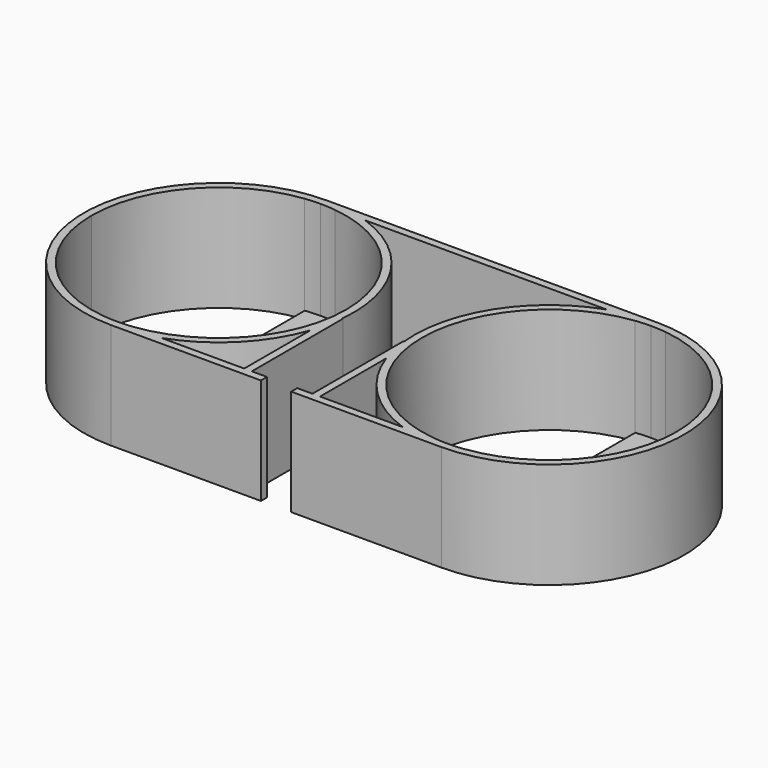
from build123d import *

# Parameters (mm, degrees)
F0_W     = 5
F0_H     = 2.5
F0_W_2   = 2.5
F1_DEPTH = 35
F2_DEPTH = 2.5


with BuildPart() as f1:
    # F0 (on Top) → F1 (new body)
    with BuildSketch(Plane.XY):
        with Locations((7.5, 1.25)):
            Rectangle(F0_W, F0_H)
        with Locations((11.25, 1.25)):
            Rectangle(F0_W_2, F0_H)
        with BuildLine():
            Line((10, 40), (10, 2.5))
            Line((10, 2.5), (12.5, 2.5))
            Line((12.5, 2.5), (12.5, 29.7945588301))
            ThreePointArc((12.5, 29.7945588301), (11.0632944452, 34.8303252101), (10.2281127576, 40))
            Line((10.2281127576, 40), (10, 40))
        make_face()
        with BuildLine():
            Line((12.5, 2.5), (12.5, 0))
            Line((12.5, 0), (54.5, 0))
            ThreePointArc((54.5, 0), (47.0417830549, 0.6294517928), (39.7945588301, 2.5))
            Line((39.7945588301, 2.5), (12.5, 2.5))
        make_face()
        with BuildLine():
            Line((39.7945588301, 2.5), (54.5, 2.5))
            ThreePointArc((54.5, 2.5), (51.9955434529, 2.574736764), (49.5, 2.798681076))
            ThreePointArc((49.5, 2.798681076), (12.5, 44.5), (49.5, 86.201318924))
            ThreePointArc((49.5, 86.201318924), (51.9955434529, 86.425263236), (54.5, 86.5))
            Line((54.5, 86.5), (39.7945588301, 86.5))
            ThreePointArc((39.7945588301, 86.5), (16.948118334, 68.3768964344), (10.2281127576, 40))
            Line((10.2281127576, 40), (12.5, 40))
            Line((12.5, 40), (12.5, 29.7945588301))
            ThreePointArc((12.5, 29.7945588301), (23.0337482372, 13.0337482372), (39.7945588301, 2.5))
        make_face()
        with BuildLine():
            ThreePointArc((10.2281127576, 40), (11.0632944452, 34.8303252101), (12.5, 29.7945588301))
            Line((12.5, 29.7945588301), (12.5, 40))
            Line((12.5, 40), (10.2281127576, 40))
        make_face()
        with BuildLine():
            ThreePointArc((39.7945588301, 2.5), (47.0417830549, 0.6294517928), (54.5, 0))
            Line((54.5, 0), (54.5, 2.5))
            Line((54.5, 2.5), (39.7945588301, 2.5))
        make_face()
        with BuildLine():
            Line((54.5, 2.5), (54.5, 0))
            ThreePointArc((54.5, 0), (85.9662517628, 13.0337482372), (99, 44.5))
            ThreePointArc((99, 44.5), (85.9662517628, 75.9662517628), (54.5, 89))
            Line((54.5, 89), (54.5, 86.5))
            ThreePointArc((54.5, 86.5), (57.0044565471, 86.425263236), (59.5, 86.201318924))
            ThreePointArc((59.5, 86.201318924), (85.9165561448, 72.3747197295), (96.5, 44.5))
            ThreePointArc((96.5, 44.5), (85.9165561448, 16.6252802705), (59.5, 2.798681076))
            ThreePointArc((59.5, 2.798681076), (57.0044565471, 2.574736764), (54.5, 2.5))
        make_face()
        with BuildLine():
            Line((54.5, 86.5), (54.5, 89))
            ThreePointArc((54.5, 89), (47.0417830549, 88.3705482072), (39.7945588301, 86.5))
            Line((39.7945588301, 86.5), (54.5, 86.5))
        make_face()
        with BuildLine():
            ThreePointArc((39.7945588301, 86.5), (47.0417830549, 88.3705482072), (54.5, 89))
            Line((54.5, 89), (0, 89))
            Line((0, 89), (0, 86.5))
            Line((0, 86.5), (39.7945588301, 86.5))
        make_face()
    extrude(amount=F1_DEPTH)

    # F0 (on Top) → F2 (join)
    with BuildSketch(Plane.XY):
        with BuildLine():
            Line((54.5, 86.5), (54.5, 44.5))
            Line((54.5, 44.5), (59.5, 44.5))
            Line((59.5, 44.5), (59.5, 86.201318924))
            ThreePointArc((59.5, 86.201318924), (57.0044565471, 86.425263236), (54.5, 86.5))
        make_face()
        with BuildLine():
            Line((49.5, 44.5), (54.5, 44.5))
            Line((54.5, 44.5), (54.5, 86.5))
            ThreePointArc((54.5, 86.5), (51.9955434529, 86.425263236), (49.5, 86.201318924))
            Line((49.5, 86.201318924), (49.5, 44.5))
        make_face()
        with BuildLine():
            ThreePointArc((49.5, 2.798681076), (51.9955434529, 2.574736764), (54.5, 2.5))
            Line((54.5, 2.5), (54.5, 44.5))
            Line((54.5, 44.5), (49.5, 44.5))
            Line((49.5, 44.5), (49.5, 2.798681076))
        make_face()
        with BuildLine():
            Line((54.5, 44.5), (54.5, 2.5))
            ThreePointArc((54.5, 2.5), (57.0044565471, 2.574736764), (59.5, 2.798681076))
            Line((59.5, 2.798681076), (59.5, 44.5))
            Line((59.5, 44.5), (54.5, 44.5))
        make_face()
    extrude(amount=F2_DEPTH)

    # F3: F1 across plane


with BuildPart() as f1_1:
    add(f1.part)
    add(f1.part.mirror(Plane.YZ))


solid = f1_1.part
